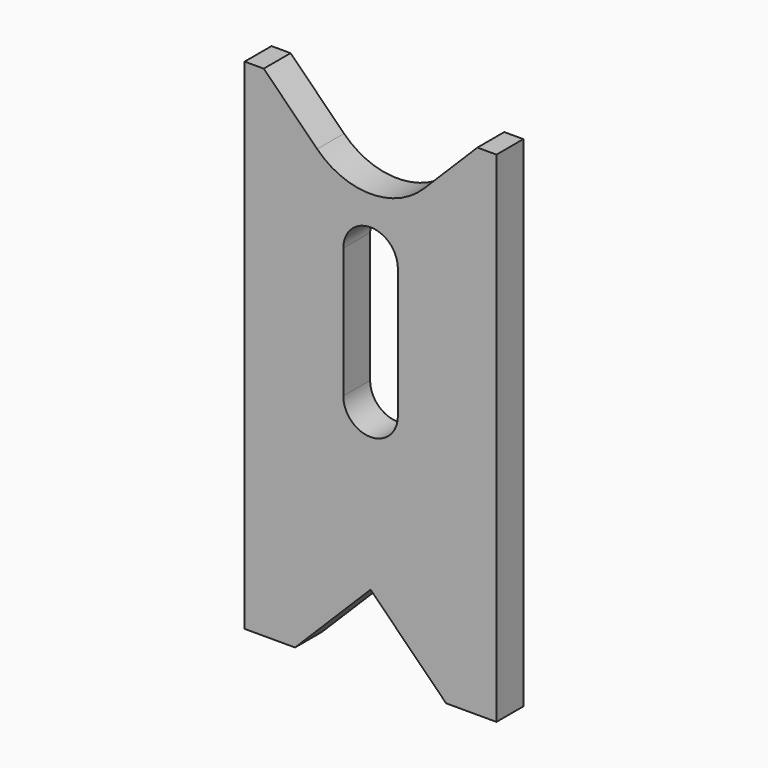
from build123d import *

# Parameters (mm, degrees)
F0_W     = 60
F0_H     = 119
F1_DEPTH = 8
F3_DEPTH = 8.001


with BuildPart() as f1:
    # F0 (on Front) → F1 (new body)
    with BuildSketch(Plane.XZ):
        Rectangle(F0_W, F0_H)
    extrude(amount=F1_DEPTH)

    # F2 (on face) → F3 (cut, through all)
    with BuildSketch(Plane.XZ.offset(8)):
        with BuildLine():
            ThreePointArc((6.5, 28), (0, 34.5), (-6.5, 28))
            Line((-6.5, 28), (-6.5, -3))
            ThreePointArc((-6.5, -3), (0, -9.5), (6.5, -3))
            Line((6.5, -3), (6.5, 28))
        make_face()
        with BuildLine():
            Line((-25.455844, 59.5), (-12.727922, 46.772078))
            ThreePointArc((-12.727922, 46.772078), (0, 41.5), (12.727922, 46.772078))
            Line((12.727922, 46.772078), (25.455844, 59.5))
            Line((25.455844, 59.5), (-25.455844, 59.5))
        make_face()
        Polygon((18, -59.5), (0, -41.5), (-18, -59.5), align=None)
    extrude(amount=-F3_DEPTH, mode=Mode.SUBTRACT)


solid = f1.part
